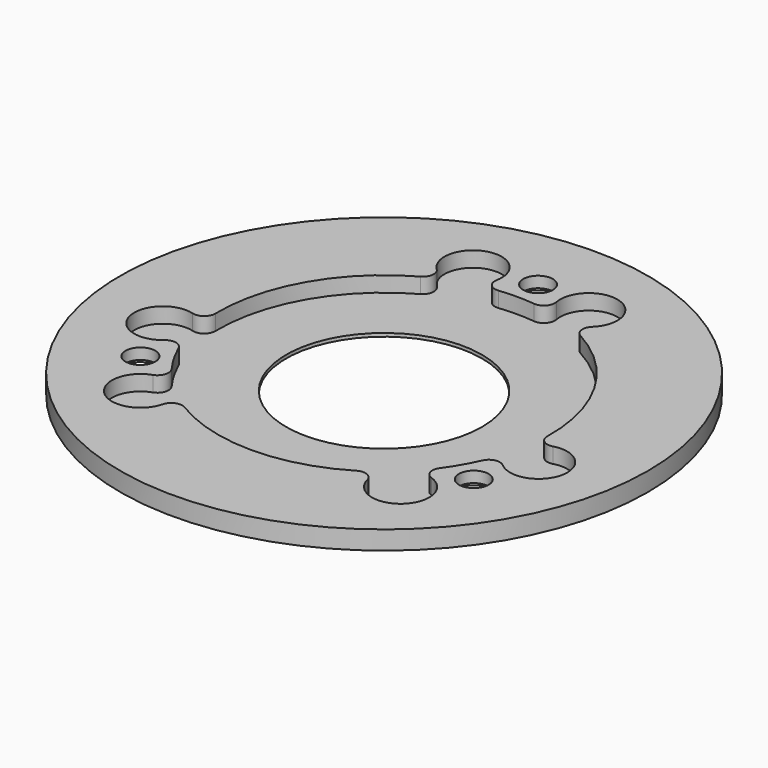
from build123d import *

# Parameters (mm, degrees)
SKETCH_W         = 15.1
SKETCH_H         = 1.7
POCKET_DEPTH     = 5.2
HOLE_D           = 2.7
HOLE_CBORE_D     = 4.7
HOLE_CBORE_DEPTH = 0.7


with BuildPart() as part:
    # Sketch → Revolution (revolve)
    with BuildSketch(Plane.XZ):
        with Locations((16.45, 0.85)):
            Rectangle(SKETCH_W, SKETCH_H)
    revolve(axis=Axis((0, 0, 0), (0, 0, 1)))

    # Sketch001 → Pocket (cut)
    with BuildSketch(Plane.XY.offset(0.3)):
        with BuildLine():
            ThreePointArc((-16.371276, -1.287625), (-19.62355, -4.350436), (-15.381589, -5.751816))
            ThreePointArc((-13.811681, -6.103071), (-14.508018, -5.531376), (-15.381589, -5.751816))
            ThreePointArc((-13.811681, -6.103071), (-13.076984, -7.55), (-12.191255, -8.909731))
            ThreePointArc((-12.672013, -10.444939), (-12.044321, -9.798624), (-12.191255, -8.909731))
            ThreePointArc((-12.672013, -10.444939), (-13.579363, -14.819274), (-9.300754, -13.534129))
            ThreePointArc((-7.813289, -12.921398), (-8.711606, -12.852495), (-9.300754, -13.534129))
            ThreePointArc((-7.813289, -12.921398), (0, -15.1), (7.813289, -12.921398))
            ThreePointArc((9.300754, -13.534129), (8.711606, -12.852495), (7.813289, -12.921398))
            ThreePointArc((9.300754, -13.534129), (13.579363, -14.819274), (12.672013, -10.444939))
            ThreePointArc((12.191255, -8.909731), (12.044321, -9.798624), (12.672013, -10.444939))
            ThreePointArc((12.191255, -8.909731), (13.076984, -7.55), (13.811681, -6.103071))
            ThreePointArc((15.381589, -5.751816), (14.508018, -5.531376), (13.811681, -6.103071))
            ThreePointArc((15.381589, -5.751816), (19.62355, -4.350436), (16.371276, -1.287625))
            ThreePointArc((15.096903, -0.305808), (15.48639, -1.118224), (16.371276, -1.287625))
            ThreePointArc((15.096903, -0.305808), (13.076984, 7.55), (7.283614, 13.227206))
            ThreePointArc((7.070522, 14.821754), (6.774784, 13.970719), (7.283614, 13.227206))
            ThreePointArc((7.070522, 14.821754), (6.044187, 19.169711), (2.709576, 16.196755))
            ThreePointArc((1.620426, 15.012802), (2.463697, 15.33), (2.709576, 16.196755))
            ThreePointArc((1.620426, 15.012802), (0, 15.1), (-1.620426, 15.012802))
            ThreePointArc((-2.709576, 16.196755), (-2.463697, 15.33), (-1.620426, 15.012802))
            ThreePointArc((-2.709576, 16.196755), (-6.044187, 19.169711), (-7.070522, 14.821754))
            ThreePointArc((-7.283614, 13.227206), (-6.774784, 13.970719), (-7.070522, 14.821754))
            ThreePointArc((-7.283614, 13.227206), (-13.076984, 7.55), (-15.096903, -0.305808))
            ThreePointArc((-16.371276, -1.287625), (-15.48639, -1.118224), (-15.096903, -0.305808))
        make_face()
    extrude(amount=POCKET_DEPTH, mode=Mode.SUBTRACT)

    # Hole (through all)
    with Locations(Plane(origin=(0, 0, 0), x_dir=(1, 0, 0), z_dir=(0, 0, -1))):
        with Locations((0, -17.5), (-15.155445, 8.75), (15.155445, 8.75)):
            CounterBoreHole(HOLE_D / 2, HOLE_CBORE_D / 2, HOLE_CBORE_DEPTH)


with BuildPart() as part_1:
    # Clone placement: moved
    add(part.part.moved(Location((0, 0, -1.7))))


solid = part_1.part
